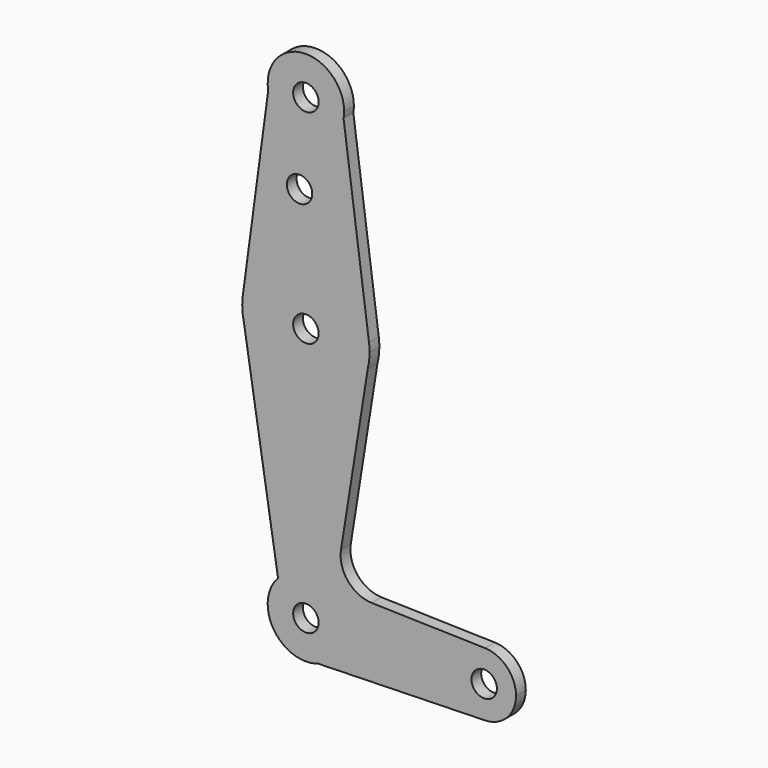
from build123d import *

# Parameters (mm, degrees)
F0_R     = 3.175
F1_DEPTH = 3.048


with BuildPart() as f1:
    # F0 (on Front) → F1 (new body)
    with BuildSketch(Plane.XZ):
        with BuildLine():
            ThreePointArc((9.394944, 112.731355), (9.49243, 113.512986), (9.525, 114.3))
            ThreePointArc((9.525, 114.3), (-0.787014, 123.79243), (-9.394944, 112.731355))
            ThreePointArc((-9.394944, 112.731355), (0, 104.775), (9.394944, 112.731355))
        make_face()
        with Locations((0, 114.3)):
            Circle(F0_R, mode=Mode.SUBTRACT)
        with BuildLine():
            ThreePointArc((9.394944, 112.731355), (0, 104.775), (-9.394944, 112.731355))
            Line((-9.394944, 112.731355), (-15.733267, 65.616587))
            ThreePointArc((-15.733267, 65.616587), (0, 79.375), (15.733267, 65.616587))
            Line((15.733267, 65.616587), (9.394944, 112.731355))
        make_face()
        with Locations((-1.5875, 93.633412)):
            Circle(F0_R, mode=Mode.SUBTRACT)
        with BuildLine():
            ThreePointArc((15.733267, 65.616587), (0, 79.375), (-15.733267, 65.616587))
            ThreePointArc((-15.733267, 65.616587), (-15.854012, 62.683953), (-15.432802, 59.779214))
            ThreePointArc((-15.432802, 59.779214), (0, 47.625), (15.432802, 59.779214))
            ThreePointArc((15.432802, 59.779214), (15.764063, 61.626515), (15.875, 63.5))
            ThreePointArc((15.875, 63.5), (15.839527, 64.560664), (15.733267, 65.616587))
        make_face()
        with Locations((0, 63.5)):
            Circle(F0_R, mode=Mode.SUBTRACT)
        with BuildLine():
            ThreePointArc((15.432802, 59.779214), (0, 47.625), (-15.432802, 59.779214))
            Line((-15.432802, 59.779214), (-6.94853, 6.514872))
            ThreePointArc((-6.94853, 6.514872), (3.502919, 8.857493), (9.525, 0))
            ThreePointArc((9.525, 0), (7.748219, -5.539921), (3.080754, -9.013023))
            Line((3.080754, -9.013023), (44.655779, -7.934832))
            ThreePointArc((44.655779, -7.934832), (36.5125, 0), (44.655779, 7.934832))
            Line((44.655779, 7.934832), (16.401671, 8.667563))
            ThreePointArc((16.401671, 8.667563), (10.493739, 11.533341), (8.756557, 17.865682))
            Line((8.756557, 17.865682), (15.432802, 59.779214))
        make_face()
        with BuildLine():
            ThreePointArc((9.525, 0), (3.502919, 8.857493), (-6.94853, 6.514872))
            ThreePointArc((-6.94853, 6.514872), (-8.001175, -5.167864), (3.080754, -9.013023))
            ThreePointArc((3.080754, -9.013023), (7.748219, -5.539921), (9.525, 0))
        make_face()
        Circle(F0_R, mode=Mode.SUBTRACT)
        with BuildLine():
            ThreePointArc((44.655779, 7.934832), (36.5125, 0), (44.655779, -7.934832))
            ThreePointArc((44.655779, -7.934832), (50.134948, -5.539429), (52.3875, 0))
            ThreePointArc((52.3875, 0), (50.134948, 5.539429), (44.655779, 7.934832))
        make_face()
        with Locations((44.45, 0)):
            Circle(F0_R, mode=Mode.SUBTRACT)
    extrude(amount=F1_DEPTH)


solid = f1.part
